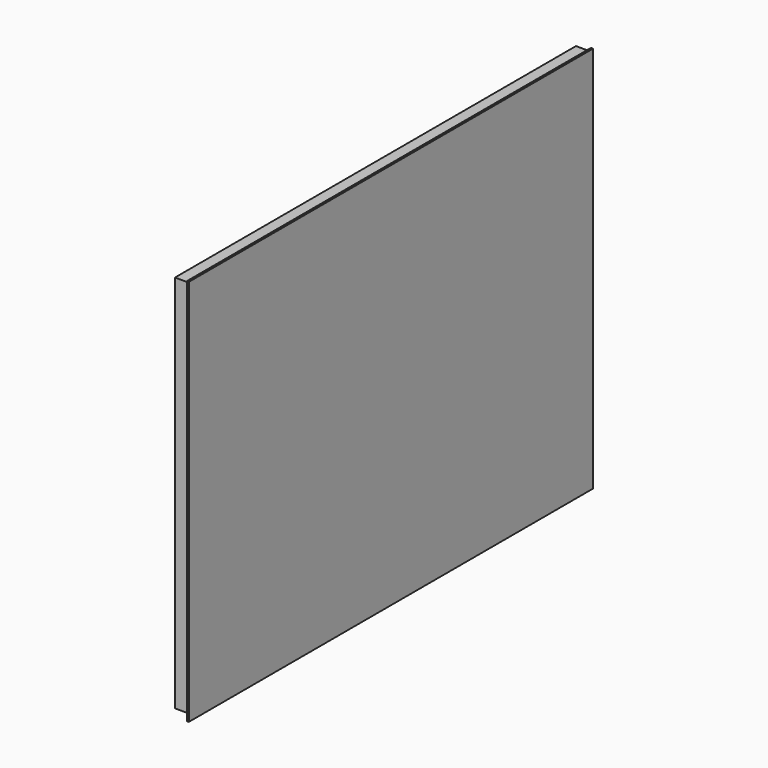
from build123d import *

# Parameters (mm, degrees)
F0_W     = 1500
F0_H     = 1150
F1_DEPTH = 6
F2_W     = 40
F2_H     = 40
F3_DEPTH = 704
F4_W     = 40
F4_H     = 40
F5_DEPTH = 1126
F7_DEPTH = 40


with BuildPart() as f1:
    # F0 (on Right) → F1 (new body)
    with BuildSketch(Plane.YZ):
        Rectangle(F0_W, F0_H)
    extrude(amount=F1_DEPTH)

    # F2 (on Front) → F3 (join, symmetric)
    with BuildSketch(Plane.XZ):
        with Locations((-20, 549)):
            Rectangle(F2_W, F2_H)
        with Locations((-20, 6)):
            Rectangle(F2_W, F2_H)
        with Locations((-20, -537)):
            Rectangle(F2_W, F2_H)
    extrude(amount=F3_DEPTH, both=True)

    # F4 (on face) → F5 (join)
    with BuildSketch(Plane.XY.offset(569)):
        with Locations((-20, -724)):
            Rectangle(F4_W, F4_H)
        with Locations((-20, 724)):
            Rectangle(F4_W, F4_H)
    extrude(amount=-F5_DEPTH)


with BuildPart() as f7:
    # F6 (on face) → F7 (new body)
    with BuildSketch(Plane(origin=(-40, 0, 0), x_dir=(0, -1, 0), z_dir=(-1, 0, 0))):
        Polygon((704, 529), (644.550703, 529), (-704, 47.237924), (-704, 26), (-644.550703, 26), (704, 507.762076), align=None)
        Polygon((-704, -14), (-704, -35.237924), (644.550703, -517), (704, -517), (704, -495.762076), (-644.550703, -14), align=None)
    extrude(amount=-F7_DEPTH)


solid = Compound([f1.part, f7.part])
